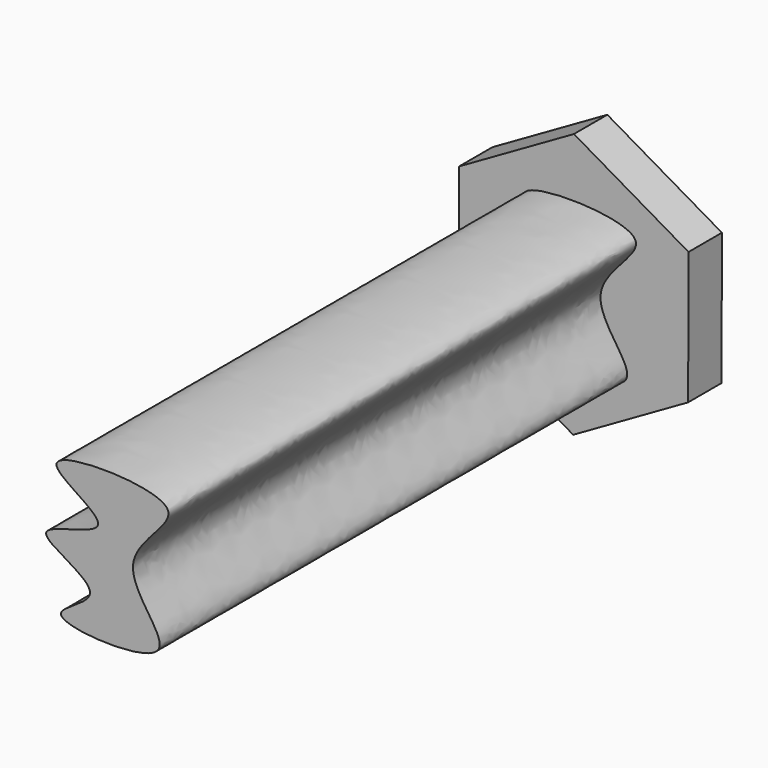
from build123d import *

# Parameters (mm, degrees)
F1_DEPTH = 150
F2_DEPTH = 10


with BuildPart() as f1:
    # F0 (on Front) → F1 (new body)
    with BuildSketch(Plane.XZ):
        with BuildLine():
            add(Edge.make_bspline(
                [(-10.786260422, -16.2330926492), (-10.1243839528, -18.9466742599), (25.6983149174, -20.9472383741), (-3.0921092125, 0.4059654176), (29.534601694, 18.2336342548), (-27.4508092099, 18.8759779984), (9.3434090364, 3.942366063), (-25.5793202487, 1.1865934003), (5.1444093302, -9.0598099106), (-11.2180202473, -14.4629503696), (-10.786260422, -16.2330926492)],
                knots=[0, 0, 0, 0, 0.1480366732, 0.2756571765, 0.4016411373, 0.5599743934, 0.6743853655, 0.7885574646, 0.9034316959, 1, 1, 1, 1], degree=3))
        make_face()
    extrude(amount=F1_DEPTH)

    # F0 (on Front) → F2 (join)
    with BuildSketch(Plane.XZ):
        Polygon((0.0903643651, 31.7458571655), (-27.4475365877, 15.9511864185), (-27.5379009528, -15.794670747), (-0.0903643651, -31.7458571655), (27.4475365877, -15.9511864185), (27.5379009528, 15.794670747), align=None)
        with BuildLine():
            add(Edge.make_bspline(
                [(-10.786260422, -16.2330926492), (-10.1243839528, -18.9466742599), (25.6983149174, -20.9472383741), (-3.0921092125, 0.4059654176), (29.534601694, 18.2336342548), (-27.4508092099, 18.8759779984), (9.3434090364, 3.942366063), (-25.5793202487, 1.1865934003), (5.1444093302, -9.0598099106), (-11.2180202473, -14.4629503696), (-10.786260422, -16.2330926492)],
                knots=[0, 0, 0, 0, 0.1480366732, 0.2756571765, 0.4016411373, 0.5599743934, 0.6743853655, 0.7885574646, 0.9034316959, 1, 1, 1, 1], degree=3))
        make_face(mode=Mode.SUBTRACT)
    extrude(amount=F2_DEPTH)


solid = f1.part
